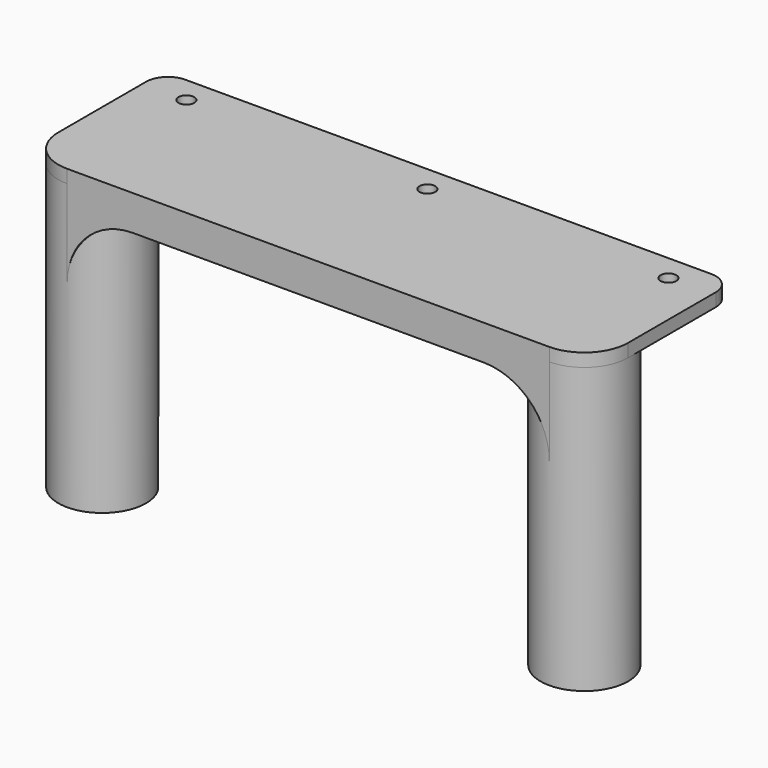
from build123d import *

# Parameters (mm, degrees)
SKETCH002_R  = 1.8
PAD002_DEPTH = 3
SKETCH003_R  = 10
PAD003_DEPTH = 65
PAD004_DEPTH = 20
SKETCH008_R  = 6
POCKET_DEPTH = 39


with BuildPart() as part:
    # Sketch002 → Pad002 (new body)
    with BuildSketch(Plane.XY):
        with BuildLine():
            Line((120, 0), (10, 0))
            ThreePointArc((0, 10), (2.928932, 2.928932), (10, 0))
            Line((0, 35), (0, 10))
            ThreePointArc((5, 40), (1.464466, 38.535534), (0, 35))
            Line((125, 40), (5, 40))
            ThreePointArc((130, 35), (128.535534, 38.535534), (125, 40))
            Line((130, 10), (130, 35))
            ThreePointArc((120, 0), (127.071068, 2.928932), (130, 10))
        make_face()
        with Locations((120, 34)):
            Circle(SKETCH002_R, mode=Mode.SUBTRACT)
        with Locations((10, 34)):
            Circle(SKETCH002_R, mode=Mode.SUBTRACT)
        with Locations((65, 34)):
            Circle(SKETCH002_R, mode=Mode.SUBTRACT)
    extrude(amount=-PAD002_DEPTH)

    # Sketch003 → Pad003 (join)
    with BuildSketch(Plane.XY.offset(-3)):
        with Locations((10, 10)):
            Circle(SKETCH003_R)
        with Locations((120, 10)):
            Circle(SKETCH003_R)
    extrude(amount=-PAD003_DEPTH)

    # Sketch004 → Pad004 (join)
    with BuildSketch(Plane.XZ):
        with BuildLine():
            Line((10, -3), (120, -3))
            Line((120, -3), (120, -23))
            ThreePointArc((120, -23), (115.606602, -12.393398), (105, -8))
            Line((25, -8), (105, -8))
            ThreePointArc((25, -8), (14.393398, -12.393398), (10, -23))
            Line((10, -23), (10, -3))
        make_face()
    extrude(amount=-PAD004_DEPTH)

    # Sketch008 → Pocket (cut)
    with BuildSketch(Plane.XY.offset(-68)):
        with Locations((10, 10)):
            Circle(SKETCH008_R)
        with Locations((120, 10)):
            Circle(SKETCH008_R)
    extrude(amount=POCKET_DEPTH, mode=Mode.SUBTRACT)

    # Cone001 → Cone001 (revolve, cut)
    with BuildSketch(Plane(origin=(10, 10, -29), x_dir=(1, 0, 0), z_dir=(0, -1, 0))):
        Polygon((0, 0), (6, 0), (0, 10), align=None)
    revolve(axis=Axis((10, 10, -29), (0, 0, 1)), mode=Mode.SUBTRACT)

    # Cone002 → Cone002 (revolve, cut)
    with BuildSketch(Plane(origin=(120, 10, -29), x_dir=(1, 0, 0), z_dir=(0, -1, 0))):
        Polygon((0, 0), (6, 0), (0, 10), align=None)
    revolve(axis=Axis((120, 10, -29), (0, 0, 1)), mode=Mode.SUBTRACT)


solid = part.part
